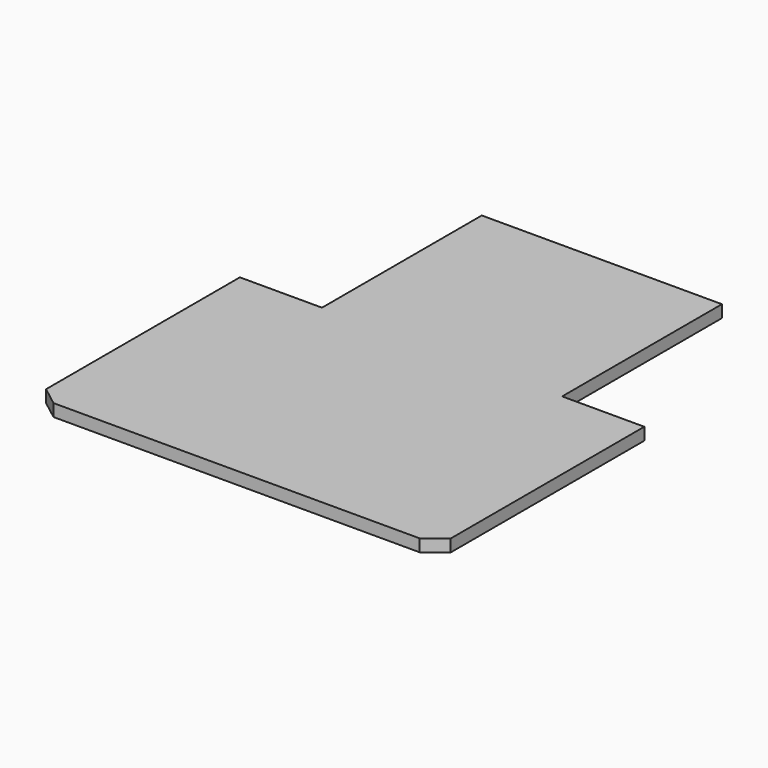
from build123d import *

# Parameters (mm, degrees)
PAD094_DEPTH = 10
SKETCH228_W  = 195.239
SKETCH228_H  = 162.3575
PAD117_DEPTH = 10


with BuildPart() as part:
    # Sketch187 → Pad094 (new body)
    with BuildSketch(Plane(origin=(0, 0, 0), x_dir=(-1, 0, 0), z_dir=(0, 0, -1))):
        Polygon((0, 97.7066), (164.4, 97.7066), (164.4, -99.195429), (148.790353, -111.193448), (0, -111.193448), align=None)
    pad094 = extrude(amount=PAD094_DEPTH)

    # Mirrored033: Pad094 across Sketch187 V_Axis
    add(pad094.mirror(Plane(origin=(0, 0, 0), x_dir=(0, 0, -1), z_dir=(-1, 0, 0))))

    # Sketch228 → Pad117 (join)
    with BuildSketch(Plane(origin=(0, 0, 0), x_dir=(-1, 0, 0), z_dir=(0, 0, -1))):
        with Locations((0, 178.88535)):
            Rectangle(SKETCH228_W, SKETCH228_H)
    extrude(amount=PAD117_DEPTH)


with BuildPart() as part_1:
    # Body072 placement: moved
    add(part.part.moved(Location((0, 0, -5))))


solid = part_1.part
